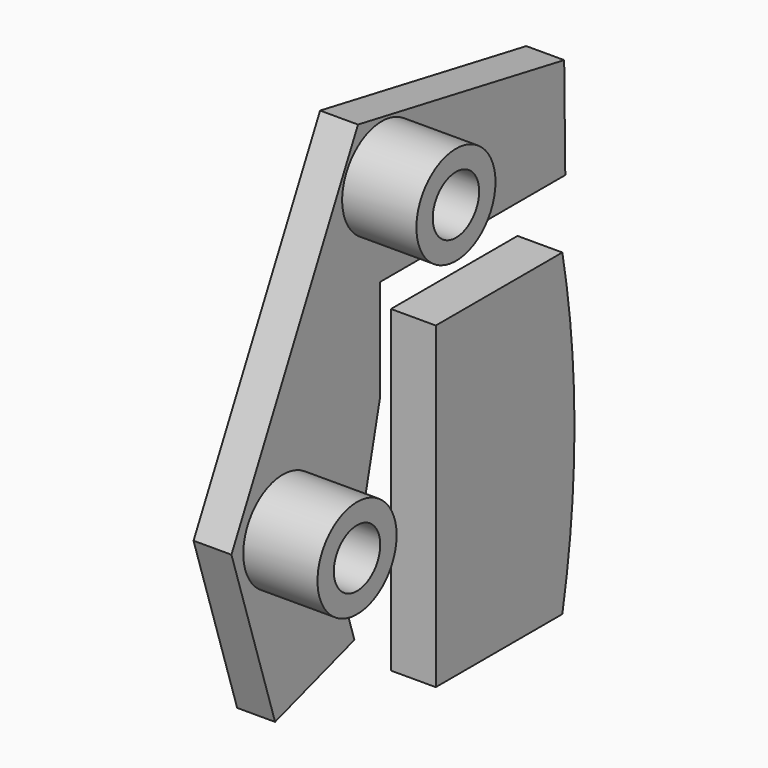
from build123d import *

# Parameters (mm, degrees)
F0_W     = 24
F0_H     = 48.3
F1_DEPTH = 6.8
F3_R     = 2.9374057491
F4_DEPTH = 5.75
F5_R     = 7.5
F5_R_2   = 4.4
F6_DEPTH = 11.26


with BuildPart() as f1:
    # F0 (on Right) → F1 (new body)
    with BuildSketch(Plane.YZ):
        with Locations((113.6375, 0)):
            Rectangle(F0_W, F0_H)
        with BuildLine():
            ThreePointArc((127.9375, 0), (127.361202025, 12.1296382881), (125.6375, 24.15))
            Line((125.6375, 24.15), (125.6375, -24.15))
            ThreePointArc((125.6375, -24.15), (127.361202025, -12.1296382881), (127.9375, 0))
        make_face()
    extrude(amount=F1_DEPTH)


with BuildPart() as f4:
    # F3 (on offset) → F4 (new body)
    with BuildSketch(Plane(origin=(2.3, 0, 0), x_dir=(0, -1, 0), z_dir=(-1, 0, 0))):
        Polygon((-92.5102382898, 53.2339587808), (-131.6127759424, 45.9509987215), (-131.8222544034, 30.5078662932), (-96.6812893748, 30.5078662932), (-96.6812893748, 15.0358723477), (-90.5733868189, -11.4052092781), (-91.8309989827, -15.3093019296), (-76.790490761, -20.1542499825), (-68.5127303004, 5.5429758504), align=None)
        with Locations((-78.2575, 4.79)):
            Circle(F3_R, mode=Mode.SUBTRACT)
        with Locations((-97.0110276681, 44.35)):
            Circle(F3_R, mode=Mode.SUBTRACT)
    extrude(amount=F4_DEPTH)

    # F5 (on face) → F6 (join)
    with BuildSketch(Plane.YZ.offset(2.3)):
        with Locations((97.0110276681, 44.35)):
            Circle(F5_R)
        with Locations((97.0110276681, 44.35)):
            Circle(F5_R_2, mode=Mode.SUBTRACT)
        with Locations((78.2575, 4.79)):
            Circle(F5_R)
        with Locations((78.2575, 4.79)):
            Circle(F5_R_2, mode=Mode.SUBTRACT)
    extrude(amount=F6_DEPTH)


solid = Compound([f1.part, f4.part])
